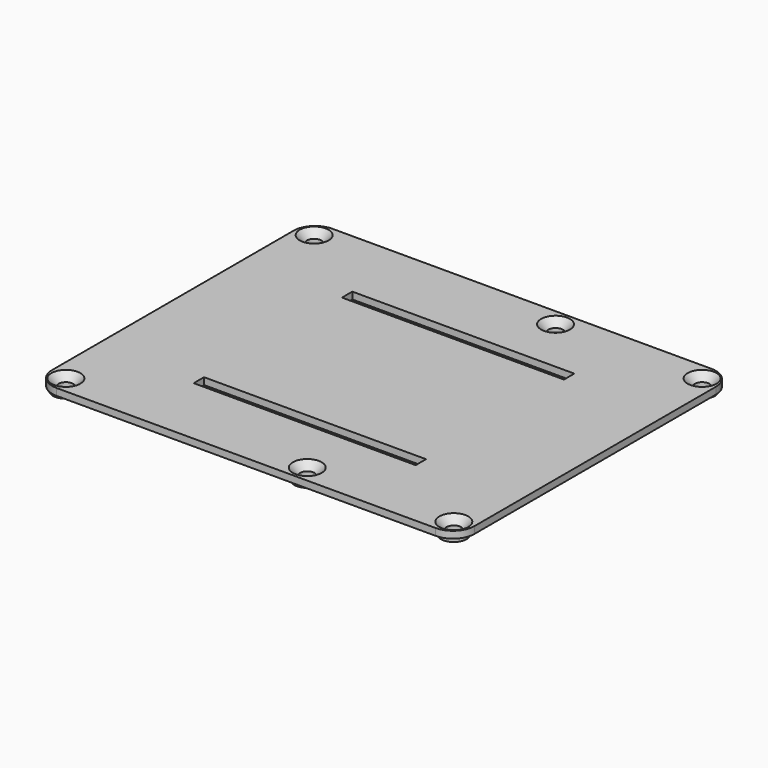
from build123d import *

# Parameters (mm, degrees)
SKETCH021_W             = 51.5
SKETCH021_H             = 3
PAD014_DEPTH            = 1.6
SKETCH022_R             = 3
PAD015_DEPTH            = 2.6
HOLE_D                  = 3.4
HOLE_DEPTH              = 25
HOLE_CSINK_D            = 6.7
HOLE_CSINK_ANGLE        = 90
BODY005_PLACEMENT_ANGLE = 180


with BuildPart() as part:
    # Sketch021 → Pad014 (new body)
    with BuildSketch(Plane.XY):
        with BuildLine():
            ThreePointArc((-44, 40), (-47.535534, 38.535534), (-49, 35))
            Line((-49, -35), (-49, 35))
            ThreePointArc((-49, -35), (-47.535534, -38.535534), (-44, -40))
            Line((44, -40), (-44, -40))
            ThreePointArc((44, -40), (47.535534, -38.535534), (49, -35))
            Line((49, 35), (49, -35))
            ThreePointArc((49, 35), (47.535534, 38.535534), (44, 40))
            Line((-44, 40), (44, 40))
        make_face()
        with Locations((0, 21.5)):
            Rectangle(SKETCH021_W, SKETCH021_H, mode=Mode.SUBTRACT)
        with Locations((0, -21.5)):
            Rectangle(SKETCH021_W, SKETCH021_H, mode=Mode.SUBTRACT)
    extrude(amount=PAD014_DEPTH)

    # Sketch022 → Pad015 (join)
    with BuildSketch(Plane.XY):
        with Locations((-45, 36)):
            Circle(SKETCH022_R)
        with Locations((11, 36)):
            Circle(SKETCH022_R)
        with Locations((45, 36)):
            Circle(SKETCH022_R)
        with Locations((45, -36)):
            Circle(SKETCH022_R)
        with Locations((11, -36)):
            Circle(SKETCH022_R)
        with Locations((-45, -36)):
            Circle(SKETCH022_R)
    extrude(amount=PAD015_DEPTH)

    # Hole
    with Locations(Plane(origin=(0, 0, 0), x_dir=(1, 0, 0), z_dir=(0, 0, -1))):
        with Locations((-45, -36), (11, -36), (45, -36), (45, 36), (11, 36), (-45, 36)):
            CounterSinkHole(HOLE_D / 2, HOLE_CSINK_D / 2, depth=HOLE_DEPTH, counter_sink_angle=HOLE_CSINK_ANGLE)


with BuildPart() as part_1:
    # Body005 placement: moved
    add(part.part.moved(Location((0, 0, 80.3))).rotate(Axis((0, 0, 80.3), (1, 0, 0)), BODY005_PLACEMENT_ANGLE))


solid = part_1.part
